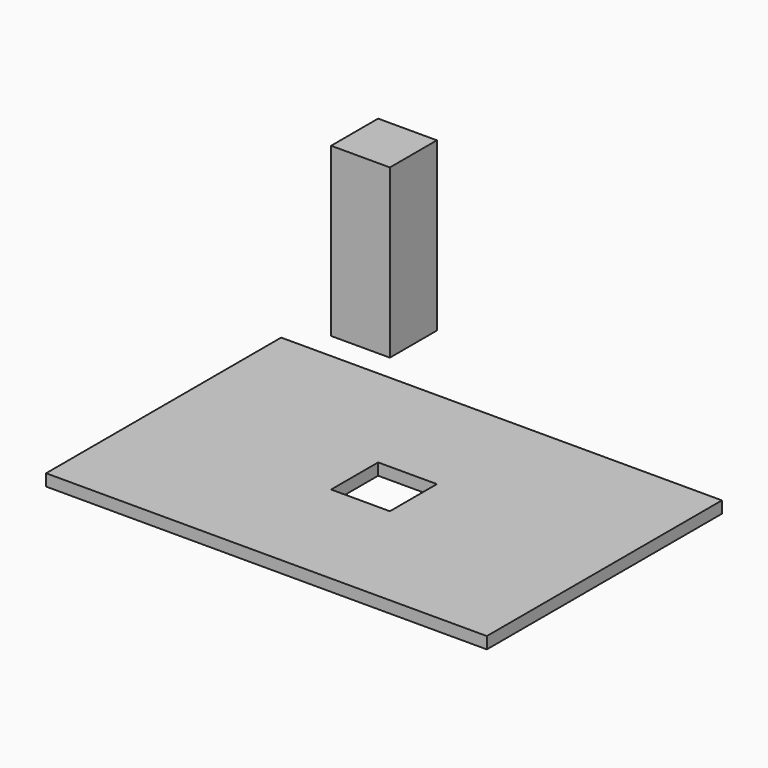
from build123d import *

# Parameters (mm, degrees)
F0_W     = 150
F0_H     = 100
F0_W_2   = 20
F0_H_2   = 20
F1_DEPTH = 4
F3_W     = 20
F3_H     = 20
F4_DEPTH = 57


with BuildPart() as f1:
    # F0 (on Top) → F1 (new body)
    with BuildSketch(Plane.XY):
        with Locations((75, 50)):
            Rectangle(F0_W, F0_H)
        with Locations((75, 50)):
            Rectangle(F0_W_2, F0_H_2, mode=Mode.SUBTRACT)
    extrude(amount=F1_DEPTH)


with BuildPart() as f4:
    # F3 (on offset) → F4 (new body)
    with BuildSketch(Plane.XY.offset(50)):
        with Locations((75, 50)):
            Rectangle(F3_W, F3_H)
    extrude(amount=F4_DEPTH)


solid = Compound([f1.part, f4.part])
